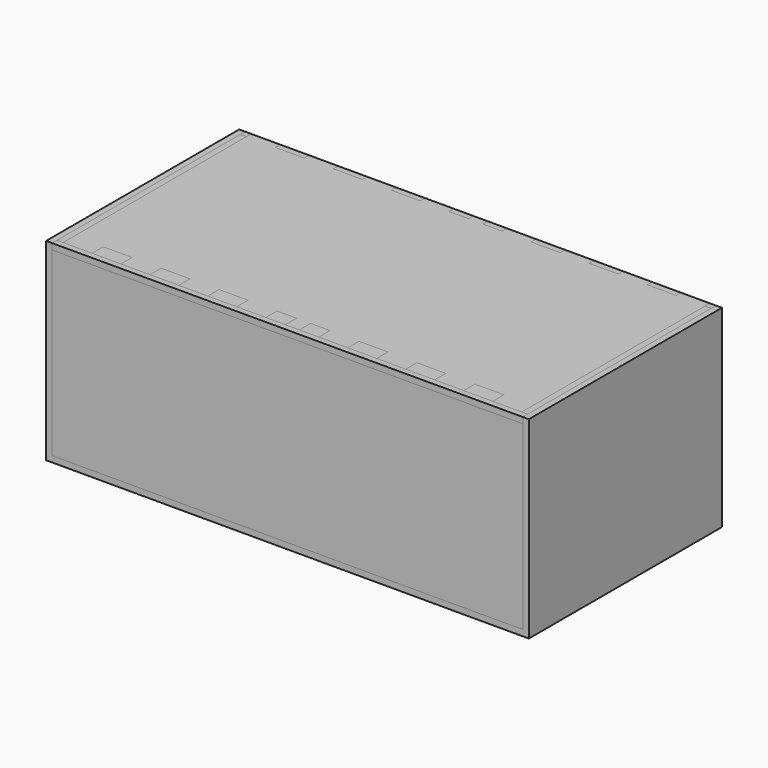
from build123d import *

# Parameters (mm, degrees)
F0_W      = 1524
F0_H      = 762
F1_DEPTH  = 609.6
F2_W      = 1485.9
F2_H      = 571.5
F3_DEPTH  = 19.05
F5_DEPTH  = 44.45
F7_DEPTH  = 19.05
F8_W      = 723.9
F8_H      = 101.6
F8_H_2    = 38.1
F9_DEPTH  = 19.05
F11_W     = 1485.9
F11_H     = 19.05
F12_DEPTH = 19.05


with BuildPart() as f1:
    # F0 (on Top) → F1 (new body)
    with BuildSketch(Plane.XY):
        Rectangle(F0_W, F0_H)
    extrude(amount=-F1_DEPTH)


with BuildPart() as f3:
    # F2 (on face) → F3 (new body)
    with BuildSketch(Plane.XZ.offset(381)):
        with Locations((0, -304.8)):
            Rectangle(F2_W, F2_H)
    extrude(amount=-F3_DEPTH)


with BuildPart() as f5:
    # F4 (on face) → F5 (new body)
    with BuildSketch(Plane(origin=(0, -361.95, 0), x_dir=(-1, 0, 0), z_dir=(0, 1, 0))):
        Polygon((-723.9, -25.4), (-723.9, -95.25), (723.9, -95.25), (723.9, -25.4), (632.46, -25.4), (632.46, 0), (541.02, 0), (541.02, -25.4), (449.58, -25.4), (449.58, 0), (358.14, 0), (358.14, -25.4), (266.7, -25.4), (266.7, 0), (175.26, 0), (175.26, -25.4), (83.82, -25.4), (83.82, 0), (22.225, 0), (22.225, -44.45), (-22.225, -44.45), (-22.225, 0), (-83.82, 0), (-83.82, -25.4), (-175.26, -25.4), (-175.26, 0), (-266.7, 0), (-266.7, -25.4), (-358.14, -25.4), (-358.14, 0), (-449.58, 0), (-449.58, -25.4), (-541.02, -25.4), (-541.02, 0), (-632.46, 0), (-632.46, -25.4), align=None)
    extrude(amount=F5_DEPTH)


with BuildPart() as f7:
    # F6 (on face) → F7 (new body)
    with BuildSketch(Plane(origin=(0, 381, 0), x_dir=(-1, 0, 0), z_dir=(0, 1, 0))):
        Polygon((-742.95, 0), (-742.95, -590.55), (742.95, -590.55), (742.95, 0), (723.9, 0), (723.9, -25.4), (632.46, -25.4), (632.46, 0), (541.02, 0), (541.02, -25.4), (449.58, -25.4), (449.58, 0), (358.14, 0), (358.14, -25.4), (266.7, -25.4), (266.7, 0), (175.26, 0), (175.26, -25.4), (83.82, -25.4), (83.82, 0), (22.225, 0), (22.225, -44.45), (-22.225, -44.45), (-22.225, 0), (-83.82, 0), (-83.82, -25.4), (-175.26, -25.4), (-175.26, 0), (-266.7, 0), (-266.7, -25.4), (-358.14, -25.4), (-358.14, 0), (-449.58, 0), (-449.58, -25.4), (-541.02, -25.4), (-541.02, 0), (-632.46, 0), (-632.46, -25.4), (-723.9, -25.4), (-723.9, 0), align=None)
    extrude(amount=-F7_DEPTH)


with BuildPart() as f9:
    # F8 (on face) → F9 (new body)
    with BuildSketch(Plane.YZ.offset(742.95)):
        with Locations((0, -50.8)):
            Rectangle(F8_W, F8_H)
        with Locations((0, -571.5)):
            Rectangle(F8_W, F8_H_2)
    extrude(amount=-F9_DEPTH)


with BuildPart() as f10_1:
    # F10: instance of F9
    add(f9.part.mirror(Plane.YZ))


with BuildPart() as f12:
    # F11 (on face) → F12 (new body)
    with BuildSketch(Plane.XY.offset(-19.05)):
        with Locations((0, -371.475)):
            Rectangle(F11_W, F11_H)
    extrude(amount=F12_DEPTH)


solid = Compound([f1.part, f3.part, f5.part, f7.part, f9.part, f10_1.part, f12.part])
